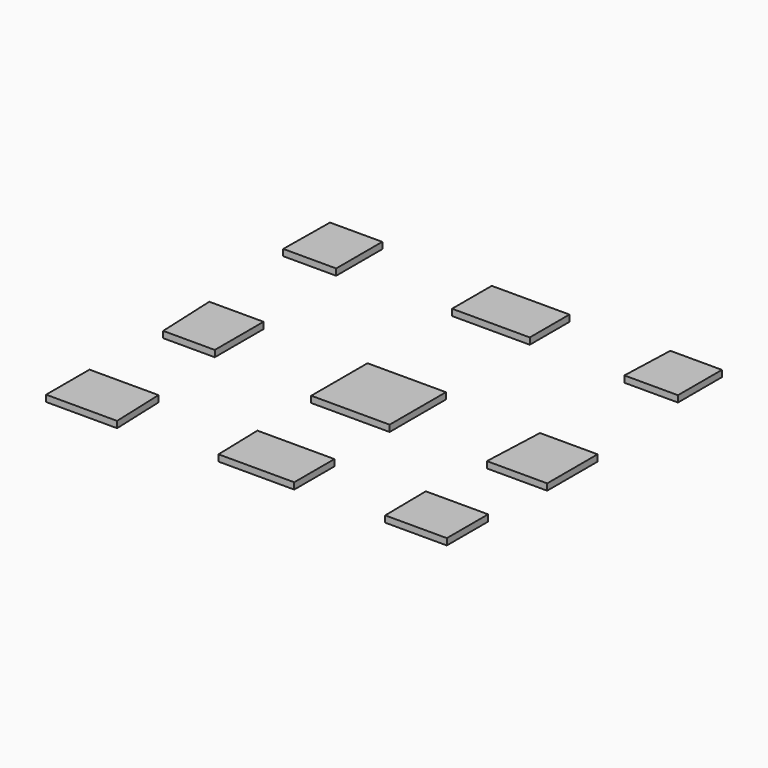
from build123d import *

# Parameters (mm, degrees)
F0_W     = 24.272487
F0_H     = 21.782994
F0_W_2   = 24.065032
F0_H_2   = 15.351832
F1_DEPTH = 2


with BuildPart() as f1:
    # F0 (on Top) → F1 (new body)
    with BuildSketch(Plane.XY):
        Polygon((61.822206, 7.675931), (43.980896, 7.675931), (43.151051, -11.82504), (61.822206, -11.82504), align=None)
        with Locations((0.726066, -0.726089)):
            Rectangle(F0_W, F0_H)
        Polygon((-39.831802, -51.241904), (-40.454179, -34.43788), (-61.82225, -34.43788), (-61.82225, -51.241904), align=None)
        with Locations((-1.244776, 52.901581)):
            Rectangle(F0_W_2, F0_H_2)
        Polygon((13.692141, -34.022957), (-10.165423, -34.022957), (-9.750515, -49.582243), (13.692141, -49.582243), align=None)
        Polygon((-48.337549, 62.029697), (-64.519197, 62.029697), (-64.726651, 44.18838), (-48.337549, 44.18838), align=None)
        Polygon((57.673067, 60.992412), (41.698843, 60.992412), (41.076481, 43.980926), (57.673067, 43.980926), align=None)
        Polygon((-44.603318, 11.410147), (-61.407343, 11.410147), (-60.577512, -7.468447), (-44.603318, -7.468447), align=None)
        Polygon((60.784906, -33.40058), (41.491389, -33.40058), (41.698843, -49.374789), (60.784906, -49.374789), align=None)
    extrude(amount=F1_DEPTH)


solid = f1.part
